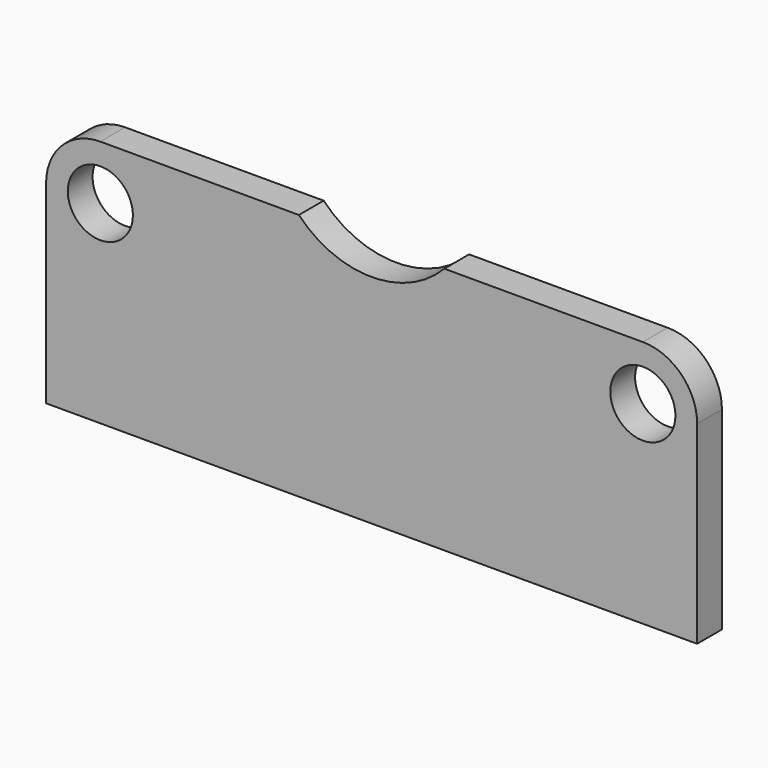
from build123d import *

# Parameters (mm, degrees)
CYLINDER005_R     = 6.5
CYLINDER005_DEPTH = 2
SKETCH003_R       = 2.1
EXTRUDE004_DEPTH  = 2


with BuildPart() as motormountcutout:
    # Cylinder005 → Cylinder005 (new body)
    with BuildSketch(Plane(origin=(0, 0, 8), x_dir=(1, 0, 0), z_dir=(0, -1, 0))):
        Circle(CYLINDER005_R)
    extrude(amount=CYLINDER005_DEPTH)


with BuildPart() as motormount:
    # Sketch003 → Extrude004 (new body)
    with BuildSketch(Plane.XZ):
        with BuildLine():
            ThreePointArc((-17.500023, 3.5), (-19.97489, 2.474858), (-21, -2.3e-05))
            Line((-21, -2.3e-05), (-21, -12.500023))
            Line((-21, -12.500023), (21, -12.500023))
            Line((21, 0), (21, -12.500023))
            ThreePointArc((21, 0), (19.974874, 2.474874), (17.5, 3.5))
            Line((-17.500023, 3.5), (17.5, 3.5))
        make_face()
        with Locations((17.5, 0)):
            Circle(SKETCH003_R, mode=Mode.SUBTRACT)
        with Locations((-17.5, 0)):
            Circle(SKETCH003_R, mode=Mode.SUBTRACT)
    extrude(amount=EXTRUDE004_DEPTH)

    # Cut004: cut motorMountCutout
    add(motormountcutout.part, mode=Mode.SUBTRACT)


with BuildPart() as motormount_1:
    # Cut004 placement: moved
    add(motormount.part.moved(Location((0, 0, -8))))


solid = motormount_1.part
